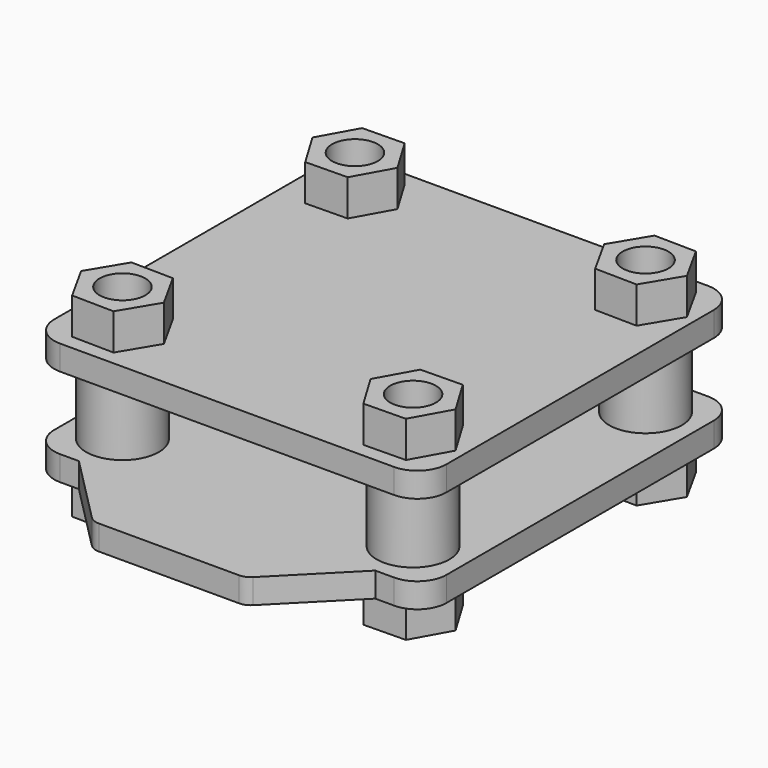
from build123d import *

# Parameters (mm, degrees)
F1_R      = 1.575
F2_DEPTH  = 1.7
F3_R      = 1.575
F4_DEPTH  = 2.5
F5_R      = 2.5
F5_R_2    = 1.575
F6_DEPTH  = 5
F7_R      = 1.575
F8_DEPTH  = 1.7
F9_R      = 1.575
F10_DEPTH = 2.5


with BuildPart() as f2:
    # F1 (on Top) → F2 (new body)
    with BuildSketch(Plane.XY):
        with BuildLine():
            Line((-10.2, 13.5), (-11.5, 13.5))
            ThreePointArc((-11.5, 13.5), (-12.9142135624, 12.9142135624), (-13.5, 11.5))
            Line((-13.5, 11.5), (-13.5, -11.5))
            ThreePointArc((-13.5, -11.5), (-12.9142135624, -12.9142135624), (-11.5, -13.5))
            Line((-11.5, -13.5), (-10.2, -13.5))
            Line((-10.2, -13.5), (10.2, -13.5))
            Line((10.2, -13.5), (11.5, -13.5))
            ThreePointArc((11.5, -13.5), (12.9142135624, -12.9142135624), (13.5, -11.5))
            Line((13.5, -11.5), (13.5, 11.5))
            ThreePointArc((13.5, 11.5), (12.9142135624, 12.9142135624), (11.5, 13.5))
            Line((11.5, 13.5), (10.2, 13.5))
            Line((10.2, 13.5), (-10.2, 13.5))
        make_face()
        with Locations((-10, -10)):
            Circle(F1_R, mode=Mode.SUBTRACT)
        with Locations((10, -10)):
            Circle(F1_R, mode=Mode.SUBTRACT)
        with Locations((-10, 10)):
            Circle(F1_R, mode=Mode.SUBTRACT)
        with Locations((10, 10)):
            Circle(F1_R, mode=Mode.SUBTRACT)
        with BuildLine():
            Line((-5.5434908481, 18.2035445979), (-10.2, 13.5))
            Line((-10.2, 13.5), (10.2, 13.5))
            Line((10.2, 13.5), (5.5434908481, 18.2035445979))
            ThreePointArc((5.5434908481, 18.2035445979), (5.2178432469, 18.4229151093), (4.832839739, 18.5))
            Line((4.832839739, 18.5), (-4.832839739, 18.5))
            ThreePointArc((-4.832839739, 18.5), (-5.2178432469, 18.4229151093), (-5.5434908481, 18.2035445979))
        make_face()
        with BuildLine():
            Line((10.2, -13.5), (-10.2, -13.5))
            Line((-10.2, -13.5), (-5.5434908481, -18.2035445979))
            ThreePointArc((-5.5434908481, -18.2035445979), (-5.2178432469, -18.4229151093), (-4.832839739, -18.5))
            Line((-4.832839739, -18.5), (4.832839739, -18.5))
            ThreePointArc((4.832839739, -18.5), (5.2178432469, -18.4229151093), (5.5434908481, -18.2035445979))
            Line((5.5434908481, -18.2035445979), (10.2, -13.5))
        make_face()
    extrude(amount=F2_DEPTH)

    # F3 (on face) → F4 (join)
    with BuildSketch(Plane(origin=(0, 0, 0), x_dir=(1, 0, 0), z_dir=(0, 0, -1))):
        Polygon((-11.4020402321, -7.4765863358), (-12.8863604535, -9.952495626), (-11.4843202214, -12.4759092903), (-8.5979597679, -12.5234136642), (-7.1136395465, -10.047504374), (-8.5156797786, -7.5240907097), align=None)
        with Locations((-10, -10)):
            Circle(F3_R, mode=Mode.SUBTRACT)
        Polygon((-12.8863604535, 9.952495626), (-11.4020402321, 7.4765863358), (-8.5156797786, 7.5240907097), (-7.1136395465, 10.047504374), (-8.5979597679, 12.5234136642), (-11.4843202214, 12.4759092903), align=None)
        with Locations((-10, 10)):
            Circle(F3_R, mode=Mode.SUBTRACT)
        Polygon((11.4843202214, -12.4759092903), (12.8863604535, -9.952495626), (11.4020402321, -7.4765863358), (8.5156797786, -7.5240907097), (7.1136395465, -10.047504374), (8.5979597679, -12.5234136642), align=None)
        with Locations((10, -10)):
            Circle(F3_R, mode=Mode.SUBTRACT)
        Polygon((8.5979597679, 12.5234136642), (7.1136395465, 10.047504374), (8.5156797786, 7.5240907097), (11.4020402321, 7.4765863358), (12.8863604535, 9.952495626), (11.4843202214, 12.4759092903), align=None)
        with Locations((10, 10)):
            Circle(F3_R, mode=Mode.SUBTRACT)
    extrude(amount=F4_DEPTH)

    # F5 (on face) → F6 (join)
    with BuildSketch(Plane.XY.offset(1.7)):
        with Locations((-10, 10)):
            Circle(F5_R)
        with Locations((-10, 10)):
            Circle(F5_R_2, mode=Mode.SUBTRACT)
        with Locations((10, 10)):
            Circle(F5_R)
        with Locations((10, 10)):
            Circle(F5_R_2, mode=Mode.SUBTRACT)
        with Locations((10, -10)):
            Circle(F5_R)
        with Locations((10, -10)):
            Circle(F5_R_2, mode=Mode.SUBTRACT)
        with Locations((-10, -10)):
            Circle(F5_R)
        with Locations((-10, -10)):
            Circle(F5_R_2, mode=Mode.SUBTRACT)
    extrude(amount=F6_DEPTH)

    # F7 (on face) → F8 (join)
    with BuildSketch(Plane.XY.offset(6.7)):
        with BuildLine():
            Line((-11.5, -13.5), (11.5, -13.5))
            ThreePointArc((11.5, -13.5), (12.9142135624, -12.9142135624), (13.5, -11.5))
            Line((13.5, -11.5), (13.5, 11.5))
            ThreePointArc((13.5, 11.5), (12.9142135624, 12.9142135624), (11.5, 13.5))
            Line((11.5, 13.5), (-11.5, 13.5))
            ThreePointArc((-11.5, 13.5), (-12.9142135624, 12.9142135624), (-13.5, 11.5))
            Line((-13.5, 11.5), (-13.5, -11.5))
            ThreePointArc((-13.5, -11.5), (-12.9142135624, -12.9142135624), (-11.5, -13.5))
        make_face()
        with Locations((-10, -10)):
            Circle(F7_R, mode=Mode.SUBTRACT)
        with Locations((10, -10)):
            Circle(F7_R, mode=Mode.SUBTRACT)
        with Locations((-10, 10)):
            Circle(F7_R, mode=Mode.SUBTRACT)
        with Locations((10, 10)):
            Circle(F7_R, mode=Mode.SUBTRACT)
    extrude(amount=F8_DEPTH)

    # F9 (on face) → F10 (join)
    with BuildSketch(Plane.XY.offset(8.4)):
        Polygon((-11.4020402321, 7.4765863358), (-8.5156797786, 7.5240907097), (-7.1136395465, 10.047504374), (-8.5979597679, 12.5234136642), (-11.4843202214, 12.4759092903), (-12.8863604535, 9.952495626), align=None)
        with Locations((-10, 10)):
            Circle(F9_R, mode=Mode.SUBTRACT)
        Polygon((12.8863604535, -9.952495626), (11.4020402321, -7.4765863358), (8.5156797786, -7.5240907097), (7.1136395465, -10.047504374), (8.5979597679, -12.5234136642), (11.4843202214, -12.4759092903), align=None)
        with Locations((10, -10)):
            Circle(F9_R, mode=Mode.SUBTRACT)
        Polygon((12.8863604535, 9.952495626), (11.4843202214, 12.4759092903), (8.5979597679, 12.5234136642), (7.1136395465, 10.047504374), (8.5156797786, 7.5240907097), (11.4020402321, 7.4765863358), align=None)
        with Locations((10, 10)):
            Circle(F9_R, mode=Mode.SUBTRACT)
        Polygon((-11.4843202214, -12.4759092903), (-8.5979597679, -12.5234136642), (-7.1136395465, -10.047504374), (-8.5156797786, -7.5240907097), (-11.4020402321, -7.4765863358), (-12.8863604535, -9.952495626), align=None)
        with Locations((-10, -10)):
            Circle(F9_R, mode=Mode.SUBTRACT)
    extrude(amount=F10_DEPTH)


solid = f2.part
